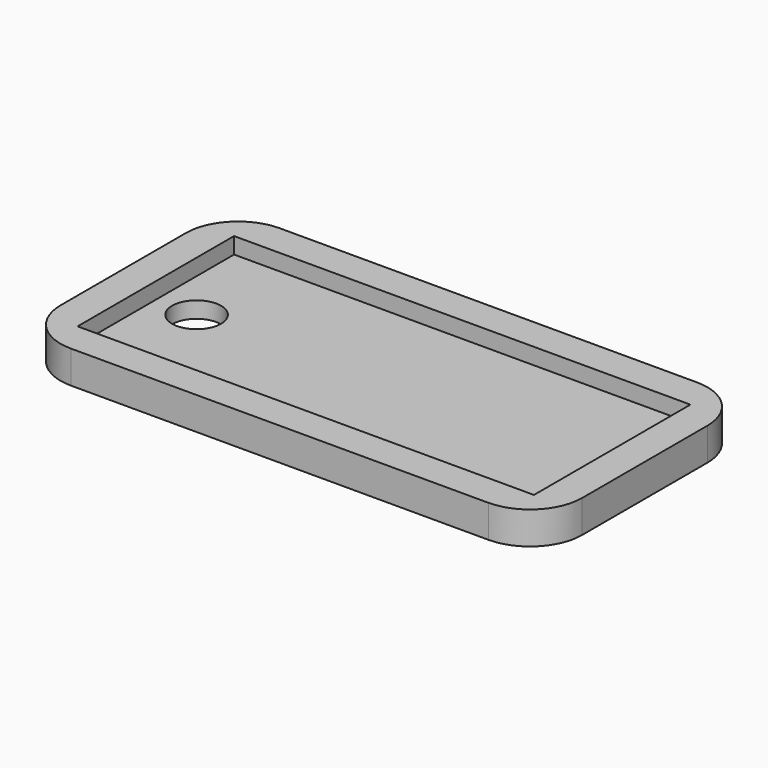
from build123d import *

# Parameters (mm, degrees)
F0_W     = 44.45
F0_H     = 19.05
F0_R     = 2.38125
F1_DEPTH = 1.5875
F0_W_2   = 50.8
F0_H_2   = 25.4
F2_DEPTH = 3.175
F3_R     = 5.08


with BuildPart() as f1:
    # F0 (on Top) → F1 (new body)
    with BuildSketch(Plane.XY):
        with Locations((25.4, 12.7)):
            Rectangle(F0_W, F0_H)
        with Locations((7.14375, 12.7)):
            Circle(F0_R, mode=Mode.SUBTRACT)
    extrude(amount=F1_DEPTH)

    # F0 (on Top) → F2 (join)
    with BuildSketch(Plane.XY):
        with Locations((25.4, 12.7)):
            Rectangle(F0_W_2, F0_H_2)
        with Locations((25.4, 12.7)):
            Rectangle(F0_W, F0_H, mode=Mode.SUBTRACT)
    extrude(amount=F2_DEPTH)

    # F3
    f3_edges = [f1.edges().sort_by_distance(p)[0] for p in [
        (50.8, 0, 1.5875),
        (50.8, 25.4, 1.5875),
        (0, 0, 1.5875),
        (0, 25.4, 1.5875),
    ]]
    fillet(f3_edges, radius=F3_R)


solid = f1.part
